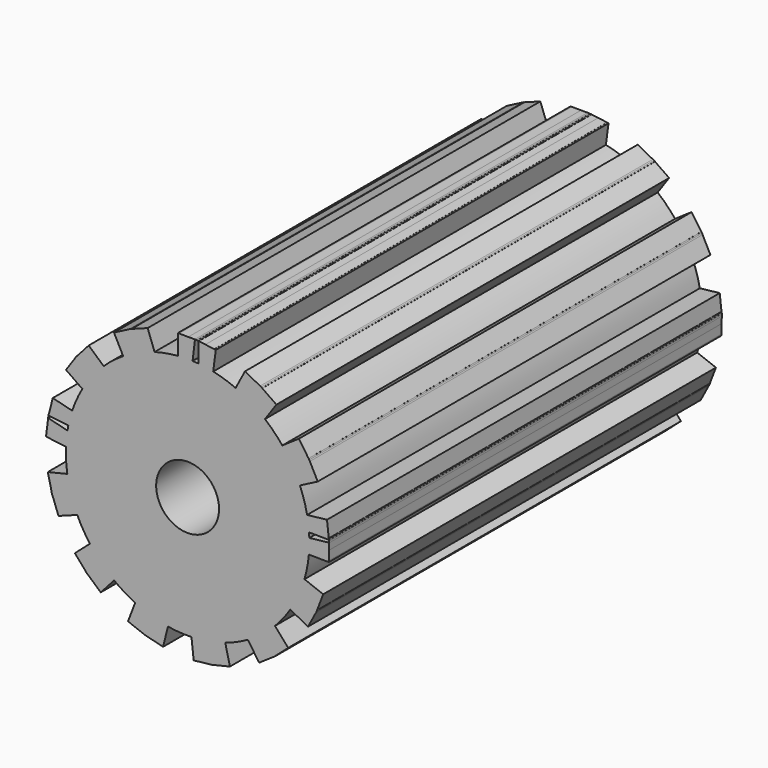
from build123d import *

# Parameters (mm, degrees)
F0_R     = 4.5
F0_R_2   = 2.775
F0_R_3   = 1.6
F1_DEPTH = 25


with BuildPart() as f1:
    # F0 (on Front) → F1 (new body)
    with BuildSketch(Plane.XZ):
        with BuildLine():
            ThreePointArc((6.1798058222, -0.5), (6.1949493984, -0.2502038193), (6.2, 0))
            ThreePointArc((6.2, 0), (6.1992326371, 0.0975433809), (6.1969307383, 0.1950626164))
            ThreePointArc((6.1969307383, 0.1950626164), (6.1918037999, 0.3186937458), (6.1842106193, 0.4421979372))
            ThreePointArc((6.1842106193, 0.4421979372), (6.1820757769, 0.4711041167), (6.1798058222, 0.5))
            ThreePointArc((6.1798058222, 0.5), (6.1420486209, 0.8457178838), (6.0849662622, 1.1887748262))
            ThreePointArc((6.0849662622, 1.1887748262), (5.9330300815, 1.799764999), (5.7199124462, 2.3921959803))
            ThreePointArc((5.7199124462, 2.3921959803), (5.5640563221, 2.7351923598), (5.3876552171, 3.0680891874))
            ThreePointArc((5.3876552171, 3.0680891874), (5.3253534636, 3.1749977146), (5.2609305817, 3.2806416163))
            ThreePointArc((5.2609305817, 3.2806416163), (5.0519599165, 3.5941203378), (4.824335159, 3.8943279617))
            ThreePointArc((4.824335159, 3.8943279617), (4.4045095029, 4.363518768), (3.9392645089, 4.787712933))
            ThreePointArc((3.9392645089, 4.787712933), (3.6411982627, 5.0181346347), (3.3296870863, 5.2300271421))
            ThreePointArc((3.3296870863, 5.2300271421), (3.2246501461, 5.2954349618), (3.1183288035, 5.3587335699))
            ThreePointArc((3.1183288035, 5.3587335699), (2.7870958495, 5.538239497), (2.4455716928, 5.6972957704))
            ThreePointArc((2.4455716928, 5.6972957704), (1.8827958197, 5.9072057609), (1.3023489533, 6.0616736306))
            ThreePointArc((1.3023489533, 6.0616736306), (1.2739965669, 6.0676958351), (1.2456163366, 6.0735854272))
            ThreePointArc((1.2456163366, 6.0735854272), (0.9031081004, 6.1338728189), (0.5577583521, 6.1748607774))
            ThreePointArc((0.5577583521, 6.1748607774), (0.5288849556, 6.1774008049), (0.5, 6.1798058222))
            ThreePointArc((0.5, 6.1798058222), (0.4054994012, 6.1867253241), (0.3109040919, 6.1921998228))
            ThreePointArc((0.3109040919, 6.1921998228), (0.2819523334, 6.193585624), (0.2529944127, 6.1948360614))
            ThreePointArc((0.2529944127, 6.1948360614), (-0.0947508228, 6.1992759482), (-0.4421979372, 6.1842106193))
            ThreePointArc((-0.4421979372, 6.1842106193), (-0.4711041167, 6.1820757769), (-0.5, 6.1798058222))
            ThreePointArc((-0.5, 6.1798058222), (-1.0956431658, 6.1024229658), (-1.6810031651, 5.9677657762))
            ThreePointArc((-1.6810031651, 5.9677657762), (-2.040366545, 5.8546480989), (-2.3921959803, 5.7199124462))
            ThreePointArc((-2.3921959803, 5.7199124462), (-2.5058698554, 5.6710330865), (-2.6185456236, 5.6198949116))
            ThreePointArc((-2.6185456236, 5.6198949116), (-2.9550493008, 5.4504755416), (-3.2806416163, 5.2609305817))
            ThreePointArc((-3.2806416163, 5.2609305817), (-3.7972748241, 4.901092114), (-4.2747505028, 4.4907135445))
            ThreePointArc((-4.2747505028, 4.4907135445), (-4.539612857, 4.2227852312), (-4.787712933, 3.9392645089))
            ThreePointArc((-4.787712933, 3.9392645089), (-4.8653739645, 3.8429332789), (-4.9410970808, 3.7450713796))
            ThreePointArc((-4.9410970808, 3.7450713796), (-5.1594408052, 3.438047495), (-5.3587335699, 3.1183288035))
            ThreePointArc((-5.3587335699, 3.1183288035), (-5.6473557145, 2.5587835848), (-5.8777422808, 1.9728521688))
            ThreePointArc((-5.8777422808, 1.9728521688), (-5.9791142084, 1.640180869), (-6.0616736306, 1.3023489533))
            ThreePointArc((-6.0616736306, 1.3023489533), (-6.0676958351, 1.2739965669), (-6.0735854272, 1.2456163366))
            ThreePointArc((-6.0735854272, 1.2456163366), (-6.0972341789, 1.1241598496), (-6.1184543563, 1.0022556014))
            ThreePointArc((-6.1184543563, 1.0022556014), (-6.1650258156, 0.6576143957), (-6.1921998228, 0.3109040919))
            ThreePointArc((-6.1921998228, 0.3109040919), (-6.193585624, 0.2819523334), (-6.1948360614, 0.2529944127))
            ThreePointArc((-6.1948360614, 0.2529944127), (-6.1902462531, -0.3476367729), (-6.1275578456, -0.9450052111))
            ThreePointArc((-6.1275578456, -0.9450052111), (-6.0588477969, -1.3154327707), (-5.9677657762, -1.6810031651))
            ThreePointArc((-5.9677657762, -1.6810031651), (-5.9330300815, -1.799764999), (-5.8959312163, -1.9178099729))
            ThreePointArc((-5.8959312163, -1.9178099729), (-5.7685631196, -2.2723731065), (-5.6198949116, -2.6185456236))
            ThreePointArc((-5.6198949116, -2.6185456236), (-5.3253534636, -3.1749977146), (-4.9758969272, -3.6987092033))
            ThreePointArc((-4.9758969272, -3.6987092033), (-4.7420601378, -3.9941038607), (-4.4907135445, -4.2747505028))
            ThreePointArc((-4.4907135445, -4.2747505028), (-4.4045095029, -4.363518768), (-4.3165511121, -4.4505490107))
            ThreePointArc((-4.3165511121, -4.4505490107), (-4.0382667881, -4.7045086192), (-3.7450713796, -4.9410970808))
            ThreePointArc((-3.7450713796, -4.9410970808), (-3.2246501461, -5.2954349618), (-2.670976294, -5.5951662743))
            ThreePointArc((-2.670976294, -5.5951662743), (-2.3262089326, -5.7470646422), (-1.9728521688, -5.8777422808))
            ThreePointArc((-1.9728521688, -5.8777422808), (-1.8551592232, -5.9159432263), (-1.7367273537, -5.9517878069))
            ThreePointArc((-1.7367273537, -5.9517878069), (-1.3720245412, -6.0462838718), (-1.0022556014, -6.1184543563))
            ThreePointArc((-1.0022556014, -6.1184543563), (-0.4054994012, -6.1867253241), (0.1950626164, -6.1969307383))
            ThreePointArc((0.1950626164, -6.1969307383), (0.5710882702, -6.1736422141), (0.9450052111, -6.1275578456))
            ThreePointArc((0.9450052111, -6.1275578456), (1.0671025362, -6.1074783812), (1.1887748262, -6.0849662622))
            ThreePointArc((1.1887748262, -6.0849662622), (1.5561654285, -6.0015289018), (1.9178099729, -5.8959312163))
            ThreePointArc((1.9178099729, -5.8959312163), (2.5058698554, -5.6710330865), (3.0680891874, -5.3876552171))
            ThreePointArc((3.0680891874, -5.3876552171), (3.3896572596, -5.1913604828), (3.6987092033, -4.9758969272))
            ThreePointArc((3.6987092033, -4.9758969272), (3.7972748241, -4.901092114), (3.8943279617, -4.824335159))
            ThreePointArc((3.8943279617, -4.824335159), (4.1801559876, -4.5788968015), (4.4505490107, -4.3165511121))
            ThreePointArc((4.4505490107, -4.3165511121), (4.8653739645, -3.8429332789), (5.2300271421, -3.3296870863))
            ThreePointArc((5.2300271421, -3.3296870863), (5.4226080536, -3.0058812181), (5.5951662743, -2.670976294))
            ThreePointArc((5.5951662743, -2.670976294), (5.6473557145, -2.5587835848), (5.6972957704, -2.4455716928))
            ThreePointArc((5.6972957704, -2.4455716928), (5.8353150834, -2.0950173932), (5.9517878069, -1.7367273537))
            ThreePointArc((5.9517878069, -1.7367273537), (6.091912134, -1.1526519644), (6.1748607774, -0.5577583521))
            ThreePointArc((6.1748607774, -0.5577583521), (6.1774008049, -0.5288849556), (6.1798058222, -0.5))
        make_face()
        Circle(F0_R, mode=Mode.SUBTRACT)
        with BuildLine():
            ThreePointArc((6.1969307383, 0.1950626164), (6.1992326371, 0.0975433809), (6.2, 0))
            ThreePointArc((6.2, 0), (6.1949493984, -0.2502038193), (6.1798058222, -0.5))
            Line((6.1798058222, -0.5), (7.1956396057, -0.5))
            Line((7.1956396057, -0.5), (7.2, -0.0336601665))
            Line((7.2, -0.0336601665), (7.2, 0.308081379))
            Line((7.2, 0.308081379), (6.1969307383, 0.1950626164))
        make_face()
        with BuildLine():
            Line((7.1956396057, -0.5), (6.1798058222, -0.5))
            ThreePointArc((6.1798058222, -0.5), (6.1774008049, -0.5288849556), (6.1748607774, -0.5577583521))
            Line((6.1748607774, -0.5577583521), (7.1950103618, -0.5672970063))
            Line((7.1950103618, -0.5672970063), (7.1956396057, -0.5))
        make_face()
        with BuildLine():
            ThreePointArc((6.1798058222, 0.5), (6.1820757769, 0.4711041167), (6.1842106193, 0.4421979372))
            Line((6.1842106193, 0.4421979372), (7.1968015948, 0.4327299578))
            Line((7.1968015948, 0.4327299578), (7.1892220814, 0.5))
            Line((7.1892220814, 0.5), (6.1798058222, 0.5))
        make_face()
        Polygon((7.203198739, 0.3084417903), (7.2, 0.308081379), (7.2, -0.0336601665), align=None)
        Polygon((7.2, 0.404343327), (7.2, 0.308081379), (7.203198739, 0.3084417903), (7.2037816216, 0.3707805065), align=None)
        Polygon((7.2, -0.0336601665), (7.1956396057, -0.5), (7.2, -0.5), align=None)
        with BuildLine():
            ThreePointArc((6.0849662622, 1.1887748262), (6.1420486209, 0.8457178838), (6.1798058222, 0.5))
            Line((6.1798058222, 0.5), (7.1892220814, 0.5))
            Line((7.1892220814, 0.5), (7.0987456732, 1.3030003329))
            Line((7.0987456732, 1.3030003329), (6.0849662622, 1.1887748262))
        make_face()
        Polygon((7.2, 0.4327000519), (7.1968015948, 0.4327299578), (7.2, 0.404343327), align=None)
        Polygon((7.1892220814, 0.5), (7.1968015948, 0.4327299578), (7.2, 0.4327000519), (7.2, 0.5), align=None)
        Polygon((7.2, 0.4327000519), (7.2, 0.404343327), (7.2037816216, 0.3707805065), (7.2043602037, 0.4326592829), align=None)
        Polygon((7.2037816216, 0.3707805065), (7.203198739, 0.3084417903), (7.2107101493, 0.309288123), align=None)
        with BuildLine():
            Line((6.9049031365, -2.100550565), (5.9517878069, -1.7367273537))
            ThreePointArc((5.9517878069, -1.7367273537), (5.8353150834, -2.0950173932), (5.6972957704, -2.4455716928))
            Line((5.6972957704, -2.4455716928), (6.5925821728, -2.9187443716))
            Line((6.5925821728, -2.9187443716), (6.9049031365, -2.100550565))
        make_face()
        with BuildLine():
            Line((6.5925821728, -2.9187443716), (5.6972957704, -2.4455716928))
            ThreePointArc((5.6972957704, -2.4455716928), (5.6473557145, -2.5587835848), (5.5951662743, -2.670976294))
            Line((5.5951662743, -2.670976294), (6.5412196728, -3.0321038248))
            Line((6.5412196728, -3.0321038248), (6.5703498725, -2.976986797))
            Line((6.5703498725, -2.976986797), (6.5925821728, -2.9187443716))
        make_face()
        with BuildLine():
            ThreePointArc((5.3876552171, 3.0680891874), (5.5640563221, 2.7351923598), (5.7199124462, 2.3921959803))
            Line((5.7199124462, 2.3921959803), (6.6262995113, 2.8604466062))
            Line((6.6262995113, 2.8604466062), (6.2243337154, 3.6385269288))
            Line((6.2243337154, 3.6385269288), (5.3876552171, 3.0680891874))
        make_face()
        with BuildLine():
            Line((6.5412196728, -3.0321038248), (5.5951662743, -2.670976294))
            ThreePointArc((5.5951662743, -2.670976294), (5.4226080536, -3.0058812181), (5.2300271421, -3.3296870863))
            Line((5.2300271421, -3.3296870863), (6.1319965191, -3.8063918203))
            Line((6.1319965191, -3.8063918203), (6.5412196728, -3.0321038248))
        make_face()
        Polygon((6.5992651474, -2.9222764268), (6.5925821728, -2.9187443716), (6.5703498725, -2.976986797), align=None)
        with BuildLine():
            ThreePointArc((5.2609305817, 3.2806416163), (5.3253534636, 3.1749977146), (5.3876552171, 3.0680891874))
            Line((5.3876552171, 3.0680891874), (6.2243337154, 3.6385269288))
            Line((6.2243337154, 3.6385269288), (6.1957201245, 3.6939139102))
            Line((6.1957201245, 3.6939139102), (6.1606019402, 3.7454228261))
            Line((6.1606019402, 3.7454228261), (5.2609305817, 3.2806416163))
        make_face()
        Polygon((6.5703498725, -2.976986797), (6.5412196728, -3.0321038248), (6.5482816038, -3.0347995053), align=None)
        with BuildLine():
            ThreePointArc((4.824335159, 3.8943279617), (5.0519599165, 3.5941203378), (5.2609305817, 3.2806416163))
            Line((5.2609305817, 3.2806416163), (6.1606019402, 3.7454228261))
            Line((6.1606019402, 3.7454228261), (5.667259146, 4.4690238052))
            Line((5.667259146, 4.4690238052), (4.824335159, 3.8943279617))
        make_face()
        Polygon((6.1957201245, 3.6939139102), (6.2243337154, 3.6385269288), (6.2305792041, 3.6427850309), align=None)
        with BuildLine():
            Line((5.1232097725, -5.0835737063), (4.4505490107, -4.3165511121))
            ThreePointArc((4.4505490107, -4.3165511121), (4.1801559876, -4.5788968015), (3.8943279617, -4.824335159))
            Line((3.8943279617, -4.824335159), (4.4647657031, -5.6610136573))
            Line((4.4647657031, -5.6610136573), (5.1232097725, -5.0835737063))
        make_face()
        Polygon((6.1673176468, 3.7488922422), (6.1606019402, 3.7454228261), (6.1957201245, 3.6939139102), align=None)
        with BuildLine():
            Line((4.4647657031, -5.6610136573), (3.8943279617, -4.824335159))
            ThreePointArc((3.8943279617, -4.824335159), (3.7972748241, -4.901092114), (3.6987092033, -4.9758969272))
            Line((3.6987092033, -4.9758969272), (4.36638601, -5.7372364099))
            Line((4.36638601, -5.7372364099), (4.417894926, -5.7021182257))
            Line((4.417894926, -5.7021182257), (4.4647657031, -5.6610136573))
        make_face()
        with BuildLine():
            ThreePointArc((3.3296870863, 5.2300271421), (3.6411982627, 5.0181346347), (3.9392645089, 4.787712933))
            Line((3.9392645089, 4.787712933), (4.521816438, 5.62522676))
            Line((4.521816438, 5.62522676), (3.8028597651, 6.1253135445))
            Line((3.8028597651, 6.1253135445), (3.3296870863, 5.2300271421))
        make_face()
        with BuildLine():
            Line((4.36638601, -5.7372364099), (3.6987092033, -4.9758969272))
            ThreePointArc((3.6987092033, -4.9758969272), (3.3896572596, -5.1913604828), (3.0680891874, -5.3876552171))
            Line((3.0680891874, -5.3876552171), (3.6427850309, -6.2305792041))
            Line((3.6427850309, -6.2305792041), (4.36638601, -5.7372364099))
        make_face()
        Polygon((4.4690238052, -5.667259146), (4.4647657031, -5.6610136573), (4.417894926, -5.7021182257), align=None)
        with BuildLine():
            ThreePointArc((3.1183288035, 5.3587335699), (3.2246501461, 5.2954349618), (3.3296870863, 5.2300271421))
            Line((3.3296870863, 5.2300271421), (3.8028597651, 6.1253135445))
            Line((3.8028597651, 6.1253135445), (3.7516814501, 6.160911794))
            Line((3.7516814501, 6.160911794), (3.6965644223, 6.1900419937))
            Line((3.6965644223, 6.1900419937), (3.1183288035, 5.3587335699))
        make_face()
        Polygon((4.417894926, -5.7021182257), (4.36638601, -5.7372364099), (4.371369965, -5.7429195214), align=None)
        with BuildLine():
            ThreePointArc((2.4455716928, 5.6972957704), (2.7870958495, 5.538239497), (3.1183288035, 5.3587335699))
            Line((3.1183288035, 5.3587335699), (3.6965644223, 6.1900419937))
            Line((3.6965644223, 6.1900419937), (2.9222764268, 6.5992651474))
            Line((2.9222764268, 6.5992651474), (2.4455716928, 5.6972957704))
        make_face()
        Polygon((3.7516814501, 6.160911794), (3.8028597651, 6.1253135445), (3.8063918203, 6.1319965191), align=None)
        with BuildLine():
            Line((2.1541141115, -6.8883809705), (1.9178099729, -5.8959312163))
            ThreePointArc((1.9178099729, -5.8959312163), (1.5561654285, -6.0015289018), (1.1887748262, -6.0849662622))
            Line((1.1887748262, -6.0849662622), (1.3021540002, -7.0912342629))
            Line((1.3021540002, -7.0912342629), (2.1541141115, -6.8883809705))
        make_face()
        Polygon((3.7008807326, 6.1962473968), (3.6965644223, 6.1900419937), (3.7516814501, 6.160911794), align=None)
        with BuildLine():
            Line((1.3021540002, -7.0912342629), (1.1887748262, -6.0849662622))
            ThreePointArc((1.1887748262, -6.0849662622), (1.0671025362, -6.1074783812), (0.9450052111, -6.1275578456))
            Line((0.9450052111, -6.1275578456), (1.1795584981, -7.1126542276))
            Line((1.1795584981, -7.1126542276), (1.2415079494, -7.1056742008))
            Line((1.2415079494, -7.1056742008), (1.3021540002, -7.0912342629))
        make_face()
        with BuildLine():
            ThreePointArc((1.2456163366, 6.0735854272), (1.2739965669, 6.0676958351), (1.3023489533, 6.0616736306))
            Line((1.3023489533, 6.0616736306), (1.4355110147, 7.0731399058))
            Line((1.4355110147, 7.0731399058), (1.368786827, 7.0819243117))
            Line((1.368786827, 7.0819243117), (1.2456163366, 6.0735854272))
        make_face()
        with BuildLine():
            Line((1.1795584981, -7.1126542276), (0.9450052111, -6.1275578456))
            ThreePointArc((0.9450052111, -6.1275578456), (0.5710882702, -6.1736422141), (0.1950626164, -6.1969307383))
            Line((0.1950626164, -6.1969307383), (0.309288123, -7.2107101493))
            Line((0.309288123, -7.2107101493), (1.1795584981, -7.1126542276))
        make_face()
        Polygon((1.3030003329, -7.0987456732), (1.3021540002, -7.0912342629), (1.2415079494, -7.1056742008), align=None)
        with BuildLine():
            ThreePointArc((0.5577583521, 6.1748607774), (0.9031081004, 6.1338728189), (1.2456163366, 6.0735854272))
            Line((1.2456163366, 6.0735854272), (1.368786827, 7.0819243117))
            Line((1.368786827, 7.0819243117), (0.9064163849, 7.1427965353))
            Line((0.9064163849, 7.1427965353), (0.5671962345, 7.1842329144))
            Line((0.5671962345, 7.1842329144), (0.5577583521, 6.1748607774))
        make_face()
        Polygon((1.2415079494, -7.1056742008), (1.1795584981, -7.1126542276), (1.1813093497, -7.1200075997), align=None)
        Polygon((0.9064163849, 7.1427965353), (1.368786827, 7.0819243117), (1.3693155276, 7.0862525347), align=None)
        with BuildLine():
            Line((-1.2478286592, -7.1086513234), (-1.0022556014, -6.1184543563))
            ThreePointArc((-1.0022556014, -6.1184543563), (-1.3720245412, -6.0462838718), (-1.7367273537, -5.9517878069))
            Line((-1.7367273537, -5.9517878069), (-2.0978548845, -6.8978412054))
            Line((-2.0978548845, -6.8978412054), (-1.2478286592, -7.1086513234))
        make_face()
        Polygon((0.5672263315, 7.1874517529), (0.5671962345, 7.1842329144), (0.9064163849, 7.1427965353), align=None)
        Polygon((0.5, 7.1924410607), (0.5671962345, 7.1842329144), (0.5672263315, 7.1874517529), (0.5054182299, 7.1955889439), (0.5, 7.1956396057), align=None)
        with BuildLine():
            Line((-2.0978548845, -6.8978412054), (-1.7367273537, -5.9517878069))
            ThreePointArc((-1.7367273537, -5.9517878069), (-1.8551592232, -5.9159432263), (-1.9728521688, -5.8777422808))
            Line((-1.9728521688, -5.8777422808), (-2.2166056987, -6.8606025674))
            Line((-2.2166056987, -6.8606025674), (-2.1583632733, -6.8828348678))
            Line((-2.1583632733, -6.8828348678), (-2.0978548845, -6.8978412054))
        make_face()
        Polygon((0.5054182299, 7.1955889439), (0.5672263315, 7.1874517529), (0.5672970063, 7.1950103618), align=None)
        with BuildLine():
            Line((-2.2166056987, -6.8606025674), (-1.9728521688, -5.8777422808))
            ThreePointArc((-1.9728521688, -5.8777422808), (-2.3262089326, -5.7470646422), (-2.670976294, -5.5951662743))
            Line((-2.670976294, -5.5951662743), (-3.0347995053, -6.5482816038))
            Line((-3.0347995053, -6.5482816038), (-2.2166056987, -6.8606025674))
        make_face()
        Polygon((-2.100550565, -6.9049031365), (-2.0978548845, -6.8978412054), (-2.1583632733, -6.8828348678), align=None)
        with BuildLine():
            ThreePointArc((-0.4421979372, 6.1842106193), (-0.0947508228, 6.1992759482), (0.2529944127, 6.1948360614))
            Line((0.2529944127, 6.1948360614), (0.3753867742, 7.1968047706))
            Line((0.3753867742, 7.1968047706), (0.0336601665, 7.2))
            Line((0.0336601665, 7.2), (-0.4327000519, 7.2))
            Line((-0.4327000519, 7.2), (-0.4421979372, 6.1842106193))
        make_face()
        Polygon((0.3753867742, 7.1968047706), (0.4430795137, 7.1961718265), (0.4434970076, 7.1993430075), (0.4381185187, 7.2), (0.3757770775, 7.2), align=None)
        Polygon((0.4716445145, 7.1959047366), (0.5, 7.1956396057), (0.5, 7.1963022674), (0.4719129323, 7.2), (0.4435835023, 7.2), (0.4434970076, 7.1993430075), align=None)
        Polygon((0.5, 7.1963022674), (0.5, 7.1956396057), (0.5054182299, 7.1955889439), align=None)
        Polygon((-2.1583632733, -6.8828348678), (-2.2166056987, -6.8606025674), (-2.2184252267, -6.867939248), align=None)
        with BuildLine():
            ThreePointArc((-0.5, 6.1798058222), (-0.4711041167, 6.1820757769), (-0.4421979372, 6.1842106193))
            Line((-0.4421979372, 6.1842106193), (-0.4327000519, 7.2))
            Line((-0.4327000519, 7.2), (-0.5, 7.2))
            Line((-0.5, 7.2), (-0.5, 6.1798058222))
        make_face()
        Polygon((0.0336601665, 7.2), (0.3753867742, 7.1968047706), (0.3757770775, 7.2), align=None)
        Polygon((0.4381185187, 7.2), (0.4434970076, 7.1993430075), (0.4435835023, 7.2), align=None)
        Polygon((0.4719129323, 7.2), (0.5, 7.1963022674), (0.5, 7.2), align=None)
        with BuildLine():
            Line((-4.4248742788, -5.7017968761), (-3.7450713796, -4.9410970808))
            ThreePointArc((-3.7450713796, -4.9410970808), (-4.0382667881, -4.7045086192), (-4.3165511121, -4.4505490107))
            Line((-4.3165511121, -4.4505490107), (-5.0778905948, -5.1182258175))
            Line((-5.0778905948, -5.1182258175), (-4.4248742788, -5.7017968761))
        make_face()
        Polygon((-0.4326592829, 7.2043602037), (-0.4327000519, 7.2), (0.0336601665, 7.2), align=None)
        Polygon((0.3766936037, 7.2075031688), (0.3757770775, 7.2), (0.4381185187, 7.2), align=None)
        Polygon((0.4440661533, 7.203666098), (0.4435835023, 7.2), (0.4719129323, 7.2), align=None)
        with BuildLine():
            Line((-5.0778905948, -5.1182258175), (-4.3165511121, -4.4505490107))
            ThreePointArc((-4.3165511121, -4.4505490107), (-4.4045095029, -4.363518768), (-4.4907135445, -4.2747505028))
            Line((-4.4907135445, -4.2747505028), (-5.1654795704, -5.0298140343))
            Line((-5.1654795704, -5.0298140343), (-5.124375002, -5.0766848115))
            Line((-5.124375002, -5.0766848115), (-5.0778905948, -5.1182258175))
        make_face()
        with BuildLine():
            ThreePointArc((-2.3921959803, 5.7199124462), (-2.040366545, 5.8546480989), (-1.6810031651, 5.9677657762))
            Line((-1.6810031651, 5.9677657762), (-2.0358989957, 6.9242411338))
            Line((-2.0358989957, 6.9242411338), (-2.8569771901, 6.6195838047))
            Line((-2.8569771901, 6.6195838047), (-2.3921959803, 5.7199124462))
        make_face()
        with BuildLine():
            Line((-5.1654795704, -5.0298140343), (-4.4907135445, -4.2747505028))
            ThreePointArc((-4.4907135445, -4.2747505028), (-4.7420601378, -3.9941038607), (-4.9758969272, -3.6987092033))
            Line((-4.9758969272, -3.6987092033), (-5.7429195214, -4.371369965))
            Line((-5.7429195214, -4.371369965), (-5.1654795704, -5.0298140343))
        make_face()
        Polygon((-5.0835737063, -5.1232097725), (-5.0778905948, -5.1182258175), (-5.124375002, -5.0766848115), align=None)
        with BuildLine():
            ThreePointArc((-2.6185456236, 5.6198949116), (-2.5058698554, 5.6710330865), (-2.3921959803, 5.7199124462))
            Line((-2.3921959803, 5.7199124462), (-2.8569771901, 6.6195838047))
            Line((-2.8569771901, 6.6195838047), (-2.9154249382, 6.5978970336))
            Line((-2.9154249382, 6.5978970336), (-2.9708119195, 6.5692834427))
            Line((-2.9708119195, 6.5692834427), (-2.6185456236, 5.6198949116))
        make_face()
        Polygon((-5.124375002, -5.0766848115), (-5.1654795704, -5.0298140343), (-5.1705164437, -5.0354502982), align=None)
        with BuildLine():
            ThreePointArc((-3.2806416163, 5.2609305817), (-2.9550493008, 5.4504755416), (-2.6185456236, 5.6198949116))
            Line((-2.6185456236, 5.6198949116), (-2.9708119195, 6.5692834427))
            Line((-2.9708119195, 6.5692834427), (-3.7488922422, 6.1673176468))
            Line((-3.7488922422, 6.1673176468), (-3.2806416163, 5.2609305817))
        make_face()
        Polygon((-2.9154249382, 6.5978970336), (-2.8569771901, 6.6195838047), (-2.8604466062, 6.6262995113), align=None)
        with BuildLine():
            Line((-6.5763702692, -2.9734414543), (-5.6198949116, -2.6185456236))
            ThreePointArc((-5.6198949116, -2.6185456236), (-5.7685631196, -2.2723731065), (-5.8959312163, -1.9178099729))
            Line((-5.8959312163, -1.9178099729), (-6.8810275984, -2.1523632599))
            Line((-6.8810275984, -2.1523632599), (-6.5763702692, -2.9734414543))
        make_face()
        Polygon((-2.9734414543, 6.5763702692), (-2.9708119195, 6.5692834427), (-2.9154249382, 6.5978970336), align=None)
        with BuildLine():
            Line((-6.8810275984, -2.1523632599), (-5.8959312163, -1.9178099729))
            ThreePointArc((-5.8959312163, -1.9178099729), (-5.9330300815, -1.799764999), (-5.9677657762, -1.6810031651))
            Line((-5.9677657762, -1.6810031651), (-6.9171543073, -2.033269461))
            Line((-6.9171543073, -2.033269461), (-6.9027143694, -2.0939155118))
            Line((-6.9027143694, -2.0939155118), (-6.8810275984, -2.1523632599))
        make_face()
        with BuildLine():
            ThreePointArc((-4.787712933, 3.9392645089), (-4.539612857, 4.2227852312), (-4.2747505028, 4.4907135445))
            Line((-4.2747505028, 4.4907135445), (-5.0354502982, 5.1705164437))
            Line((-5.0354502982, 5.1705164437), (-5.6190213568, 4.5175001277))
            Line((-5.6190213568, 4.5175001277), (-4.787712933, 3.9392645089))
        make_face()
        with BuildLine():
            Line((-6.9171543073, -2.033269461), (-5.9677657762, -1.6810031651))
            ThreePointArc((-5.9677657762, -1.6810031651), (-6.0588477969, -1.3154327707), (-6.1275578456, -0.9450052111))
            Line((-6.1275578456, -0.9450052111), (-7.1200075997, -1.1813093497))
            Line((-7.1200075997, -1.1813093497), (-6.9171543073, -2.033269461))
        make_face()
        Polygon((-6.8883809705, -2.1541141115), (-6.8810275984, -2.1523632599), (-6.9027143694, -2.0939155118), align=None)
        with BuildLine():
            ThreePointArc((-4.9410970808, 3.7450713796), (-4.8653739645, 3.8429332789), (-4.787712933, 3.9392645089))
            Line((-4.787712933, 3.9392645089), (-5.6190213568, 4.5175001277))
            Line((-5.6190213568, 4.5175001277), (-5.6605623628, 4.4710157205))
            Line((-5.6605623628, 4.4710157205), (-5.6961606123, 4.4198374055))
            Line((-5.6961606123, 4.4198374055), (-4.9410970808, 3.7450713796))
        make_face()
        Polygon((-6.9027143694, -2.0939155118), (-6.9171543073, -2.033269461), (-6.9242411338, -2.0358989957), align=None)
        with BuildLine():
            ThreePointArc((-5.3587335699, 3.1183288035), (-5.1594408052, 3.438047495), (-4.9410970808, 3.7450713796))
            Line((-4.9410970808, 3.7450713796), (-5.6961606123, 4.4198374055))
            Line((-5.6961606123, 4.4198374055), (-6.1962473968, 3.7008807326))
            Line((-6.1962473968, 3.7008807326), (-5.3587335699, 3.1183288035))
        make_face()
        Polygon((-5.6605623628, 4.4710157205), (-5.6190213568, 4.5175001277), (-5.62522676, 4.521816438), align=None)
        with BuildLine():
            Line((-7.2075031688, 0.3766936037), (-6.1948360614, 0.2529944127))
            ThreePointArc((-6.1948360614, 0.2529944127), (-6.193585624, 0.2819523334), (-6.1921998228, 0.3109040919))
            Line((-6.1921998228, 0.3109040919), (-7.1993430075, 0.4434970076))
            Line((-7.1993430075, 0.4434970076), (-7.2075031688, 0.3766936037))
        make_face()
        Polygon((-5.7017968761, 4.4248742788), (-5.6961606123, 4.4198374055), (-5.6605623628, 4.4710157205), align=None)
        with BuildLine():
            Line((-7.1993430075, 0.4434970076), (-6.1921998228, 0.3109040919))
            ThreePointArc((-6.1921998228, 0.3109040919), (-6.1650258156, 0.6576143957), (-6.1184543563, 1.0022556014))
            Line((-6.1184543563, 1.0022556014), (-7.0981903126, 1.2452342841))
            Line((-7.0981903126, 1.2452342841), (-7.1427965353, 0.9064163849))
            Line((-7.1427965353, 0.9064163849), (-7.1993430075, 0.4434970076))
        make_face()
        with BuildLine():
            ThreePointArc((-6.0616736306, 1.3023489533), (-5.9791142084, 1.640180869), (-5.8777422808, 1.9728521688))
            Line((-5.8777422808, 1.9728521688), (-6.867939248, 2.2184252267))
            Line((-6.867939248, 2.2184252267), (-7.0624541938, 1.434104214))
            Line((-7.0624541938, 1.434104214), (-6.0616736306, 1.3023489533))
        make_face()
        Polygon((-7.203666098, 0.4440661533), (-7.1993430075, 0.4434970076), (-7.1427965353, 0.9064163849), align=None)
        with BuildLine():
            ThreePointArc((-6.0735854272, 1.2456163366), (-6.0676958351, 1.2739965669), (-6.0616736306, 1.3023489533))
            Line((-6.0616736306, 1.3023489533), (-7.0624541938, 1.434104214))
            Line((-7.0624541938, 1.434104214), (-7.0787493659, 1.3683990014))
            Line((-7.0787493659, 1.3683990014), (-6.0735854272, 1.2456163366))
        make_face()
        Polygon((-7.1427965353, 0.9064163849), (-7.0981903126, 1.2452342841), (-7.1013146429, 1.2460091313), align=None)
        Polygon((-7.1013146429, 1.2460091313), (-7.0981903126, 1.2452342841), (-7.0856256071, 1.3406726977), (-7.0937557036, 1.3078906125), align=None)
        Polygon((-7.0787493659, 1.3683990014), (-7.0624541938, 1.434104214), (-7.0731399058, 1.4355110147), (-7.0819243117, 1.368786827), align=None)
        Polygon((-7.0856256071, 1.3406726977), (-7.0787493659, 1.3683990014), (-7.0819243117, 1.368786827), align=None)
        Polygon((-7.1086513234, 1.2478286592), (-7.1013146429, 1.2460091313), (-7.0937557036, 1.3078906125), align=None)
        Polygon((-7.0937557036, 1.3078906125), (-7.0856256071, 1.3406726977), (-7.0819243117, 1.368786827), (-7.0862525347, 1.3693155276), align=None)
        Circle(F0_R)
        Circle(F0_R_2, mode=Mode.SUBTRACT)
        Circle(F0_R_2)
        Circle(F0_R_3, mode=Mode.SUBTRACT)
    extrude(amount=F1_DEPTH)


solid = f1.part
